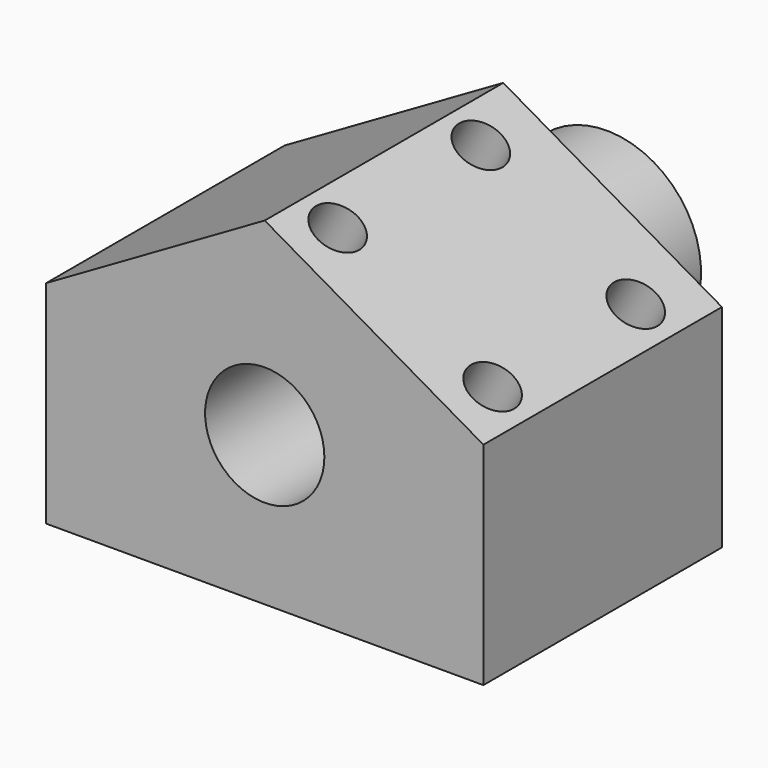
from build123d import *

# Parameters (mm, degrees)
F0_W     = 22
F0_H     = 17
F1_DEPTH = 15
F2_R     = 4.75
F3_DEPTH = 6.5
F4_R     = 3
F5_DEPTH = 21.501
F7_DEPTH = 21.501
F9_D     = 2.5
F9_DEPTH = 5
F9_TIP   = 0.7510757738


with BuildPart() as f1:
    # F0 (on Front) → F1 (new body)
    with BuildSketch(Plane.XZ):
        with Locations((0, 8.5)):
            Rectangle(F0_W, F0_H)
    extrude(amount=-F1_DEPTH)

    # F2 (on face) → F3 (join)
    with BuildSketch(Plane(origin=(0, 15, 0), x_dir=(-1, 0, 0), z_dir=(0, 1, 0))):
        with Locations((0, 7.5)):
            Circle(F2_R)
    extrude(amount=F3_DEPTH)

    # F4 (on face) → F5 (cut, through all)
    with BuildSketch(Plane.XZ):
        with Locations((0, 7.5)):
            Circle(F4_R)
    extrude(amount=-F5_DEPTH, mode=Mode.SUBTRACT)

    # F6 (on face) → F7 (cut, through all)
    with BuildSketch(Plane.XZ):
        Polygon((11, 17), (0, 17), (11, 10.6491470389), align=None)
        Polygon((-11, 10.6491470389), (0, 17), (-11, 17), align=None)
    extrude(amount=-F7_DEPTH, mode=Mode.SUBTRACT)

    # F9
    with Locations(Plane(origin=(7.3612159322, 0, 12.75), x_dir=(0.8660254038, 0, -0.5), z_dir=(0.5, 0, 0.8660254038))):
        with Locations((-6.7057428082, 2.6455062134), (-6.7057428082, 11.6455062134), (2.2942571918, 11.6455062134), (2.2942571918, 2.6455062134)):
            Hole(F9_D / 2, depth=F9_DEPTH)
            with Locations((0, 0, -(F9_DEPTH + F9_TIP / 2))):  # 118° drill point
                Cone(0, F9_D / 2, F9_TIP, mode=Mode.SUBTRACT)


solid = f1.part
